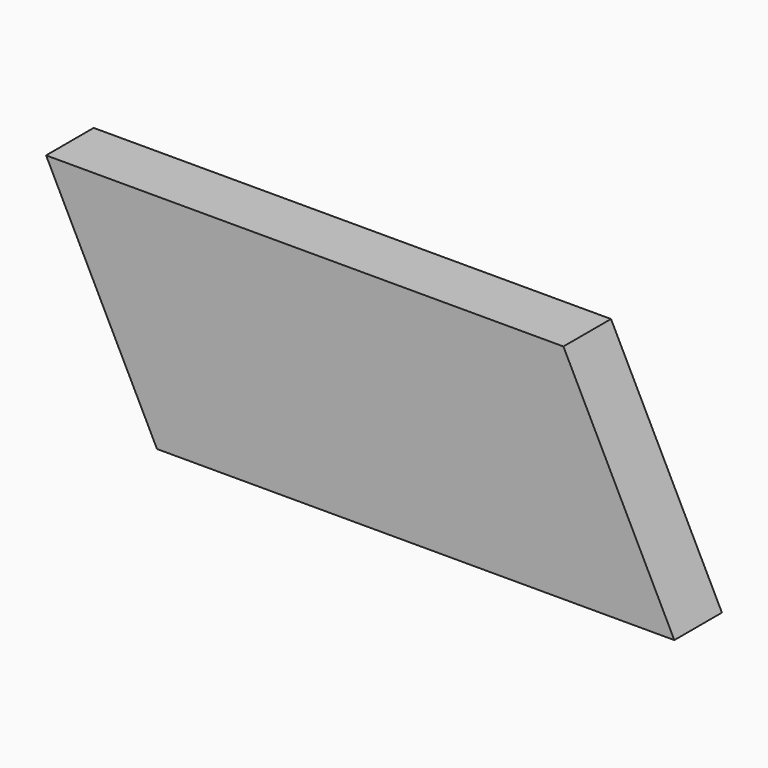
from build123d import *

# Parameters (mm, degrees)
PAD_DEPTH = 11.5


with BuildPart() as part:
    # Sketch → Pad (new body)
    with BuildSketch(Plane.XZ):
        Polygon((0, 0), (100, 0), (78.560987, 43), (-21.439013, 43), align=None)
    extrude(amount=PAD_DEPTH)


solid = part.part
